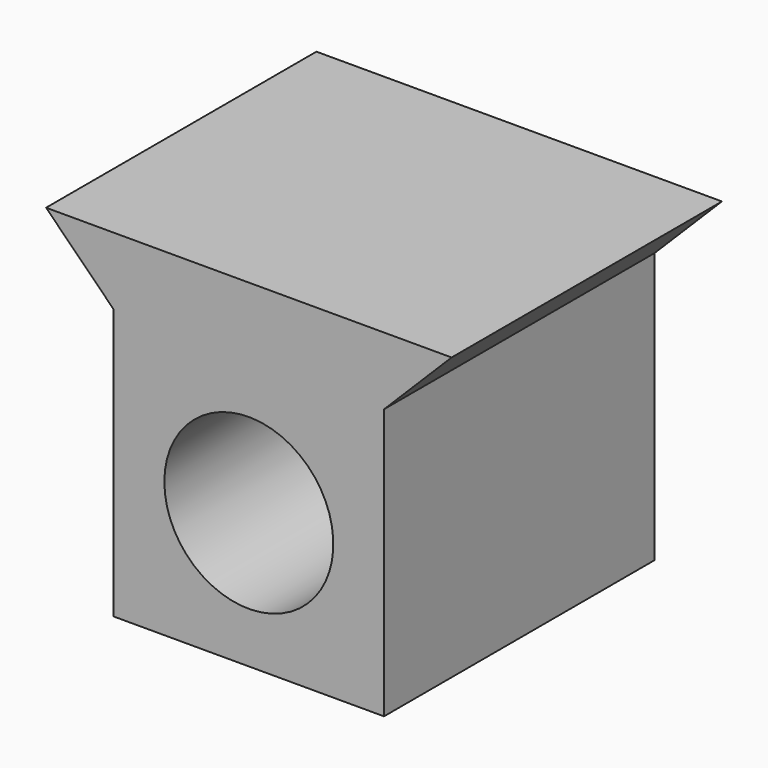
from build123d import *

# Parameters (mm, degrees)
F0_W     = 25.4
F0_H     = 31.75
F1_DEPTH = 31.75
F2_R     = 7.9375
F3_DEPTH = 31.75
F5_DEPTH = 31.75


with BuildPart() as f1:
    # F0 (on Front) → F1 (new body)
    with BuildSketch(Plane.XZ):
        Rectangle(F0_W, F0_H)
    extrude(amount=F1_DEPTH)

    # F2 (on face) → F3 (cut, through all)
    with BuildSketch(Plane(origin=(0, 0, 0), x_dir=(-1, 0, 0), z_dir=(0, 1, 0))):
        with Locations((0, -3.175)):
            Circle(F2_R)
    extrude(amount=-F3_DEPTH, mode=Mode.SUBTRACT)

    # F4 (on face) → F5 (join, through all)
    with BuildSketch(Plane(origin=(0, 0, 0), x_dir=(-1, 0, 0), z_dir=(0, 1, 0))):
        Polygon((19.05, 15.875), (-19.05, 15.875), (-12.707431, 9.532431), (12.707431, 9.532431), align=None)
    extrude(amount=-F5_DEPTH)


solid = f1.part
